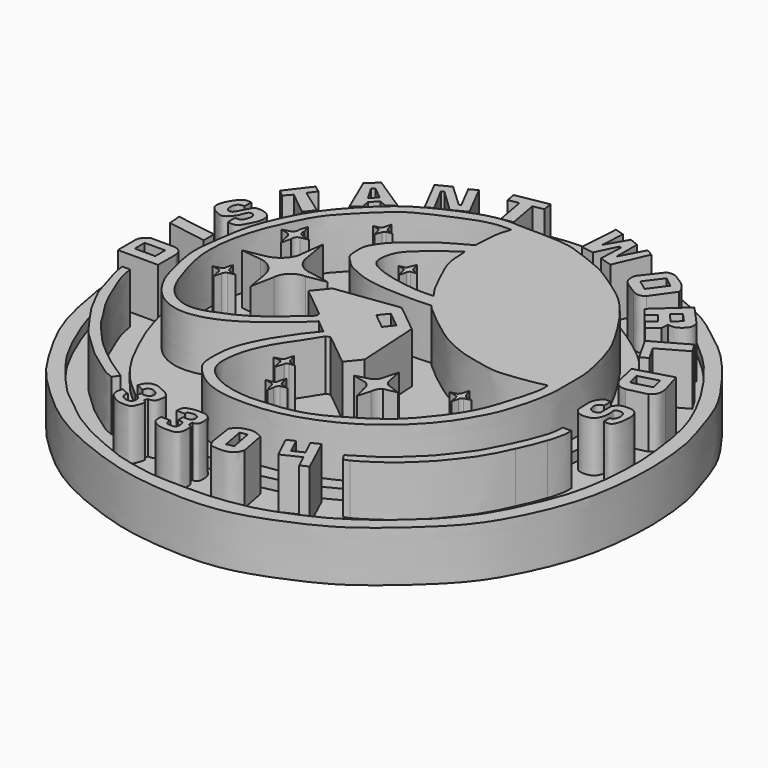
from build123d import *

# Parameters (mm, degrees)
F1_DEPTH = 5
F3_DEPTH = 1
F4_W     = 2.0163320005
F4_H     = 1.2270435691
F5_DEPTH = 5
F7_DEPTH = 5
F9_DEPTH = 5


with BuildPart() as f1:
    # F0 (on Top) → F1 (new body)
    with BuildSketch(Plane.XY):
        with BuildLine():
            add(Edge.make_bspline(
                [(51.7111346126, 48.049069941), (50.7678748897, 48.8049664216), (49.0102523766, 50.2131634527), (47.0960580877, 51.4622891603), (44.1532612894, 52.6678782116), (41.7987623297, 53.7455167095), (38.9241384854, 54.198368845), (36.2112760615, 54.588855191), (35.1156233269, 54.6296674229), (33.6611531675, 54.6973161399)],
                knots=[0, 0, 0, 0, 0.1587848407, 0.2887083688, 0.4389341741, 0.5777311814, 0.7234995998, 0.8580338098, 1, 1, 1, 1], degree=3))
            add(Edge.make_bspline(
                [(33.6611531675, 54.6973161399), (32.184455608, 54.6879987988), (28.5848595211, 54.2873708369), (24.0966370939, 52.8939574051), (20.9543695132, 51.1176224838), (17.3013221824, 48.6703474206), (15.4954945757, 46.7132766377), (13.4642047341, 44.2725846086), (11.3753618637, 41.2033970178), (9.521257633, 36.9335459877), (9.0242952072, 34.3606317348), (8.3641316141, 31.0716881383), (8.3856176584, 28.0495422351), (8.3731040723, 26.2356906156), (8.4787542, 25.5665443838)],
                knots=[0, 0, 0, 0, 0.0992587907, 0.1949964277, 0.2796793533, 0.3711651103, 0.4434600597, 0.5205588551, 0.6071574608, 0.701571019, 0.773718079, 0.8535568226, 0.9316454041, 1, 1, 1, 1], degree=3))
            add(Edge.make_bspline(
                [(8.4787542, 25.5665443838), (8.6469567072, 24.5576187529), (8.9892938948, 22.5041846587), (9.8736117903, 19.2432238378), (11.2199326592, 16.5845150003), (12.6998829432, 14.0818975753), (14.0260104939, 12.0863894558), (16.8961952907, 9.3077131414), (19.1515703093, 7.4536539705), (22.2435344436, 5.558426725), (27.5370818749, 3.5665883249), (31.0881702196, 2.8264838442), (36.4625127252, 2.4293909244), (40.2660491232, 3.040994586), (43.9751932746, 4.4318608424), (47.8648532092, 6.2355339751), (51.3627337493, 9.1108446822), (55.2761096531, 12.7078364534), (57.5788638472, 16.5330580491), (59.867785906, 21.9566905207), (60.3192412557, 27.3993684004), (60.3596594825, 29.4969516172), (60.09543055, 33.6556261084), (59.0757460976, 36.7795969155), (58.0060793509, 40.1216866902), (56.3765744324, 42.6802730824), (54.0940134997, 45.687862782), (52.5894050157, 47.3064024378), (51.7111346126, 48.049069941)],
                knots=[0, 0, 0, 0, 0.0347671138, 0.0708835607, 0.1051348664, 0.1382235837, 0.1690414489, 0.2080424565, 0.2418125015, 0.279323602, 0.3257933719, 0.3642625582, 0.409337531, 0.4482569036, 0.4870881778, 0.5276679324, 0.5698334428, 0.6148691725, 0.6564759175, 0.7047955472, 0.7500336724, 0.7790145723, 0.8183086152, 0.8548907835, 0.8912249173, 0.925687178, 0.9637277723, 1, 1, 1, 1], degree=3))
        make_face()
    extrude(amount=F1_DEPTH)

    # F2 (on face) → F3 (cut)
    with BuildSketch(Plane.XY.offset(5)):
        with BuildLine():
            add(Edge.make_bspline(
                [(41.0741753876, 52.4231344461), (40.4283108463, 52.5833942243), (39.2038707624, 52.8872172145), (37.6200383203, 53.0050375199), (35.8836721205, 53.1421407011), (33.4262599728, 53.1422456116), (31.5427762623, 53.1827877825), (29.7621839799, 53.014720149), (27.9199064835, 52.4611643215), (26.8693622202, 52.1455034614)],
                knots=[0, 0, 0, 0, 0.1395792916, 0.2646166008, 0.3972579901, 0.5549875768, 0.692245885, 0.8245056346, 1, 1, 1, 1], degree=3))
            add(Edge.make_bspline(
                [(26.8693622202, 52.1455034614), (26.1941077621, 51.9542118441), (24.8967005592, 51.5455639456), (23.2368308294, 50.7417276012), (21.9925520931, 50.0790887874), (21.3698633015, 49.7033596039)],
                knots=[0, 0, 0, 0, 0.3372017683, 0.6561727718, 1, 1, 1, 1], degree=3))
            add(Edge.make_bspline(
                [(21.3698633015, 49.7033596039), (20.8973073654, 49.4017412843), (20.0406075813, 48.7304597124), (18.5227663278, 47.5618500654), (17.4015694157, 46.5168084363), (16.7121433374, 45.8309374471), (15.5555123685, 44.5531851217), (14.796894317, 43.7997052266), (14.1297310683, 42.8254789984), (13.5414138776, 41.8603157707), (12.5184109385, 40.1809245621), (11.719447372, 38.5671220246), (11.2048363581, 37.1532939993), (10.8593457096, 35.9752066741), (10.4061809742, 34.6687647279), (10.1985998212, 33.2223982613), (9.7607197916, 31.0559009306), (9.8300043872, 29.823589938), (9.7754706922, 28.215188391), (9.7995950383, 26.7571871681), (10.0722465463, 24.6177874858), (10.5319855515, 22.7509816863), (10.8277031056, 21.3216075805), (11.5478520346, 19.4337394571), (12.3200081945, 17.6152657912), (12.9496594042, 16.3900759192), (13.8823698668, 14.7863838299), (15.0267174198, 13.4345009184), (16.0397017325, 12.1432008222), (17.227913808, 10.8341151701), (18.362962405, 9.9943729913), (19.85892427, 8.7623651761), (20.8136418481, 7.9904990708), (21.3698633015, 7.7066877857)],
                knots=[0, 0, 0, 0, 0.0328312465, 0.0683469791, 0.0995035849, 0.1249785832, 0.158060919, 0.1850135767, 0.2119535757, 0.2392529097, 0.2749364156, 0.3096840344, 0.3406860632, 0.3689004643, 0.3983516928, 0.4297730833, 0.4673249345, 0.4961301656, 0.5277285375, 0.5588836932, 0.5963540518, 0.6317401346, 0.6624203073, 0.6987063202, 0.7345540494, 0.7645418697, 0.7989875003, 0.8330718983, 0.8659213263, 0.8994452941, 0.9298939869, 0.965161083, 1, 1, 1, 1], degree=3))
            add(Edge.make_bspline(
                [(21.3698633015, 7.7066877857), (21.8242935954, 7.4197201829), (22.6102193249, 6.9234169533), (23.3405393814, 6.5974041487), (24.6749344216, 5.9752896213), (26.3517315803, 5.2950634151), (27.4916230597, 4.8555784018), (29.5184609248, 4.4422468372), (30.8744221007, 4.1773678533), (32.8012161649, 4.1176201475), (34.3783740447, 4.1096532644), (36.5315940476, 4.0829339972), (38.9610746598, 4.4207098494), (40.520645509, 4.70232748), (42.3335395771, 5.297027359), (44.2628369911, 6.0888472605), (46.5390845182, 7.1498145383), (49.0321602101, 8.9186219394), (50.0774553693, 9.729187726), (50.5082644522, 10.1606398821)],
                knots=[0, 0, 0, 0, 0.0530182962, 0.0918722738, 0.1446718725, 0.2035260186, 0.2528430584, 0.314616508, 0.3673996298, 0.4270126854, 0.482352294, 0.5467076514, 0.615235957, 0.6704680698, 0.729996623, 0.7930885823, 0.8631039364, 0.9395187167, 1, 1, 1, 1], degree=3))
            add(Edge.make_bspline(
                [(50.5082644522, 10.1606398821), (51.338030961, 10.8818824664), (52.8403305889, 12.1795774718), (54.1048621806, 13.8573359271), (55.1416239802, 15.1454667025), (55.703444036, 16.3951065215), (56.1069063842, 17.0135274529)],
                knots=[0, 0, 0, 0, 0.298919277, 0.5406530418, 0.7550289179, 1, 1, 1, 1], degree=3))
            add(Edge.make_bspline(
                [(56.1069063842, 17.0135274529), (56.4326513518, 17.6978444952), (57.0859658146, 19.0703115025), (57.944695926, 21.2594466329), (58.4011756202, 22.9855385418), (58.7809196913, 25.1389850478), (58.9144225131, 27.0488127779), (59.0182689408, 29.3055808128), (58.7717953988, 31.766077563), (58.4580605837, 34.1799384295), (57.9065093051, 36.5797244458), (57.0603517425, 38.5011529251), (56.1427986068, 40.3398277654), (54.6707713624, 42.6445054274), (53.3467822606, 44.2962389651), (52.3700339476, 45.5297902522), (49.8549028411, 47.7490127661), (48.3008189062, 49.0051240545), (45.6593942423, 50.5404322545), (43.4174382795, 51.5462594101), (41.8625418649, 52.1995034487), (41.0741753876, 52.4231344461)],
                knots=[0, 0, 0, 0, 0.0526341934, 0.1054666584, 0.1521141378, 0.2028619096, 0.2511055579, 0.3029884878, 0.3576252491, 0.4120405374, 0.4663575411, 0.5161812303, 0.5660348361, 0.6237046151, 0.6735156817, 0.7175474668, 0.780021004, 0.8307477358, 0.8903270132, 0.9454987587, 1, 1, 1, 1], degree=3))
        make_face()
        with BuildLine():
            add(Edge.make_bspline(
                [(33.6611531675, 48.2968576252), (32.7188668493, 48.2742248928), (30.8046123674, 48.2282467973), (27.9114389036, 47.2817738082), (25.6462642564, 46.2355344258), (23.6179173597, 45.270702111), (22.0028176949, 43.8402463906), (20.3712265939, 42.4943191205), (18.5038511465, 40.4011453894), (17.0743709632, 38.1014423754), (15.9216284472, 35.5309685728), (15.0852811342, 33.1070860508), (14.766773209, 31.299572438), (14.705631882, 30.168460682)],
                knots=[0, 0, 0, 0, 0.0953139236, 0.193385532, 0.2828253523, 0.3668201283, 0.4487961276, 0.5310076717, 0.6249674214, 0.7185131609, 0.8127826862, 0.9022486818, 1, 1, 1, 1], degree=3))
            add(Edge.make_bspline(
                [(14.705631882, 30.168460682), (14.6423668264, 28.7732806751), (14.5313965079, 26.3260597202), (15.1924855846, 24.0773446405), (15.7495546112, 22.2744021708), (17.1155021831, 19.319743144), (18.11601092, 17.4956140049), (19.6961029886, 15.4037010457), (21.490398612, 13.9650312351), (23.3465675563, 12.1291224025), (26.3968128165, 10.8109803892), (30.5685234002, 9.1349101269), (34.5839135517, 9.1756992622), (37.480572005, 8.9832966462), (42.3842030021, 10.5317663329), (44.935723289, 12.1669415949), (47.8687667413, 14.2676364066), (50.4690296834, 16.9069316265), (52.0460040883, 20.1494770433), (53.7202561963, 24.0923082442), (53.9581500681, 27.0739756369), (54.0263772486, 30.7699494684), (53.3791052886, 33.466629615), (52.328215763, 36.9348318757), (50.3362013773, 40.0437383165), (48.3720066975, 42.7059913993), (45.8786990141, 44.527740758), (43.3939287237, 46.2503628865), (40.1417645846, 47.5979485293), (37.3363855362, 48.2168805922), (34.9348804179, 48.2691399421), (33.6611531675, 48.2968576252)],
                knots=[0, 0, 0, 0, 0.0379727707, 0.0666062872, 0.0930975919, 0.1273715728, 0.1556918609, 0.1861995113, 0.2154099754, 0.2458638676, 0.2807806532, 0.3216988206, 0.359570364, 0.3926344792, 0.4353497636, 0.4693429432, 0.5053357892, 0.542034269, 0.5787205557, 0.6180139824, 0.651552283, 0.6878574224, 0.720012294, 0.7562202583, 0.7932829924, 0.8280739053, 0.8614452834, 0.8949852744, 0.9306518806, 0.9632186545, 1, 1, 1, 1], degree=3))
        make_face(mode=Mode.SUBTRACT)
    extrude(amount=-F3_DEPTH, mode=Mode.SUBTRACT)

    # F4 (on face) → F5 (join)
    with BuildSketch(Plane.XY.offset(4)):
        Polygon((31.7012083238, 51.6743659702), (31.5646380186, 52.6255890727), (28.3657149824, 52.0422572621), (28.5380798092, 51.0970288259), (29.5516100854, 51.2818486683), (30.0942004899, 48.3063467113), (31.2042847351, 48.5087734172), (30.6616003429, 51.4847907916), align=None)
        Polygon((24.2754928768, 46.1726076901), (24.9480567873, 46.5179793537), (23.593839258, 49.0264631808), (23.8603758607, 49.1473502907), (26.0750576854, 47.0179878073), (27.4589914014, 47.728776821), (25.776406866, 51.0048340245), (25.0277018038, 50.6202987491), (26.2477416545, 48.2448339462), (26.0750576854, 48.1357686222), (23.8534309401, 50.2147923038), (22.5448421991, 49.5428123427), align=None)
        Polygon((22.5266497582, 45.0575910509), (19.1179737449, 47.2863395097), (18.0665291846, 46.3814884424), (19.66034621, 42.6797159016), (20.4829629511, 43.2838238776), (20.31586878, 44.1064424813), (21.0228059441, 44.787671417), (21.742593497, 44.4920435548), align=None)
        Polygon((19.1179737449, 45.9912680089), (19.3647202104, 46.2529547513), (20.5600839108, 45.2632457018), (19.9177805334, 44.6279607713), align=None, mode=Mode.SUBTRACT)
        Polygon((16.2322902458, 43.1145676141), (15.5721949413, 43.6180308461), (13.8525953516, 41.3634479046), (14.4640086219, 40.805529803), (15.0957031906, 41.4977934901), (17.3835065216, 39.666775614), (18.116640419, 40.5828049955), (15.6718253846, 42.3305810757), align=None)
        with BuildLine():
            Line((13.3341727778, 37.6409515738), (13.3341727778, 38.4594388306))
            add(Edge.make_bspline(
                [(13.3341727778, 38.4594388306), (13.1328329949, 38.4861773352), (12.6794054255, 38.4670141477), (12.3715226432, 38.2494571317), (12.0767417188, 37.8415632361), (11.8218229211, 37.4482514287), (11.585603405, 36.9231194827), (11.4754050972, 36.3642093111), (11.6297396421, 36.0097183185), (11.9673009658, 35.6498556262), (12.3994227109, 35.4598877166), (13.0409652648, 35.1419269755), (13.6489838953, 35.7712943984), (13.9722418095, 36.245819714), (14.1448826176, 36.9367650593), (14.4043674386, 37.0492316275), (14.663117852, 37.0262841894), (14.9194735279, 36.7453837978), (14.8668100745, 36.4286048589), (14.7465057058, 36.0150124939), (14.583904277, 35.7154910698), (14.3462515674, 35.6220316846), (14.0574633645, 35.6540014845), (13.9775425196, 35.6511510909)],
                knots=[0, 0, 0, 0, 0.0570729672, 0.1004342645, 0.1501865811, 0.1995540161, 0.2540778443, 0.3070362003, 0.350369328, 0.3992355509, 0.4492449185, 0.5056340887, 0.5680046813, 0.6248155043, 0.6829368711, 0.7179385703, 0.7529490931, 0.7943604927, 0.8338813536, 0.8812856923, 0.9218677925, 0.9573822298, 1, 1, 1, 1], degree=3))
            Line((13.9775425196, 35.6511510909), (13.9775425196, 34.7756370902))
            add(Edge.make_bspline(
                [(13.9775425196, 34.7756370902), (14.2274338215, 34.7147552567), (14.85275661, 34.587127473), (15.3084712512, 35.4237602568), (15.4406432534, 35.7038824169), (15.6742011957, 36.0783186973), (15.7136898488, 36.3005772233)],
                knots=[0, 0, 0, 0, 0.2811261954, 0.564899386, 0.7488575689, 1, 1, 1, 1], degree=3))
            add(Edge.make_bspline(
                [(15.7136898488, 36.3005772233), (15.7963173886, 36.4708987151), (15.8577395566, 36.8541839595), (15.791136577, 37.4796592903), (15.2933716012, 37.7878689711), (14.820708284, 37.9457803969), (14.1602965065, 37.9886642948), (13.8703037967, 37.5520399389), (13.5736237612, 36.9697845141), (13.3927814882, 36.5850423612), (13.1680755406, 36.2086534843), (12.7308582453, 36.2496457095), (12.5496178667, 36.6045953078), (12.5133984564, 36.9805266253), (12.6633304779, 37.4172577468), (12.8962866098, 37.6035697467), (13.1986695936, 37.6319771345), (13.3341727778, 37.6409515738)],
                knots=[0, 0, 0, 0, 0.0742559969, 0.1492473299, 0.2207007021, 0.291550564, 0.3669483846, 0.4349897952, 0.5144178099, 0.5797680334, 0.6410282249, 0.6992429143, 0.7581682065, 0.8188691727, 0.8837159573, 0.9358592343, 1, 1, 1, 1], degree=3))
        make_face()
        Polygon((14.4279263914, 32.489712403), (10.483909207, 33.1097332466), (10.5870895946, 31.8509405588), (14.4279263914, 31.2165144183), align=None)
        with BuildLine():
            Line((10.2754924446, 27.9924366623), (10.2754924446, 25.8068926632))
            Line((10.2754924446, 25.8068926632), (14.2484623939, 25.8068926632))
            Line((14.2484623939, 25.8068926632), (14.2484623939, 27.9924366623))
            add(Edge.make_bspline(
                [(13.2731795311, 28.9509501308), (13.3709499401, 28.941728004), (13.5627570465, 28.9060325795), (13.7976352281, 28.810146736), (14.0706454491, 28.5937155491), (14.2252486955, 28.2885714053), (14.2242600566, 28.0684766605), (14.2484623939, 27.9924366623)],
                knots=[0, 0, 0, 0, 0.1964321573, 0.3797173689, 0.5920145119, 0.8050201005, 1, 1, 1, 1], degree=3))
            Line((13.2731795311, 28.9509501308), (11.0247032717, 28.9509501308))
            add(Edge.make_bspline(
                [(11.0247032717, 28.9509501308), (10.9400641363, 28.9133937846), (10.7706032171, 28.8382000468), (10.5689523641, 28.6464374974), (10.4110467983, 28.4303286881), (10.3080016732, 28.2457161921), (10.2866800994, 28.0795997249), (10.2754924446, 27.9924366623)],
                knots=[0, 0, 0, 0, 0.2079811, 0.416411016, 0.6203698375, 0.8008040492, 1, 1, 1, 1], degree=3))
        make_face()
        with Locations((12.1522275731, 27.4256244302)):
            Rectangle(F4_W, F4_H, mode=Mode.SUBTRACT)
        with BuildLine():
            Line((13.027927562, 23.8670001503), (12.2642284259, 23.8670001503))
            add(Edge.make_bspline(
                [(12.2642284259, 23.8670001503), (12.3017119019, 23.5269744987), (12.3836639388, 22.8096305016), (12.8468530554, 21.6106513813), (13.155143213, 20.2480274762), (13.566018576, 19.1492113653), (13.8568682596, 18.6361819506)],
                knots=[0, 0, 0, 0, 0.2196710713, 0.4606366711, 0.7154864609, 1, 1, 1, 1], degree=3))
            add(Edge.make_bspline(
                [(13.8568682596, 18.6361819506), (14.1113035621, 18.1158924791), (14.610653001, 17.0947831714), (15.5415504772, 15.7568033097), (16.2712190234, 14.7967454044), (17.0297768704, 13.628677883), (18.0510864545, 12.7622386723), (19.0981333226, 11.6481081462), (20.3005326801, 10.6803960014), (21.4141736639, 9.9681239406), (22.2742208476, 9.2674165562), (22.8538510221, 9.063910103), (23.1286939234, 8.967413567)],
                knots=[0, 0, 0, 0, 0.113276296, 0.2223137051, 0.3170241332, 0.4171478651, 0.516697972, 0.6230424129, 0.7302078951, 0.8293699765, 0.9190924614, 1, 1, 1, 1], degree=3))
            Line((23.1286939234, 8.967413567), (23.5469993204, 9.5641948283))
            add(Edge.make_bspline(
                [(13.027927562, 23.8670001503), (13.0988075151, 23.4335313078), (13.2448521572, 22.5403901692), (13.8307702388, 21.1104381965), (14.2498195635, 20.0791827468), (14.8003112704, 18.7882258314), (15.4327285631, 17.6781262507), (16.2393937079, 16.5708904884), (16.7172455575, 15.5430687829), (17.8123147137, 14.3954608024), (18.6545486117, 13.3540849613), (19.6361564689, 12.4102573445), (20.4028679906, 11.7999204332), (21.6181278076, 10.8149628584), (22.5286774141, 10.2652750222), (23.2014641977, 9.8020840746), (23.5469993204, 9.5641948283)],
                knots=[0, 0, 0, 0, 0.0728177379, 0.1500373521, 0.2167979436, 0.2901597816, 0.3618290912, 0.4342516547, 0.5011435831, 0.5791638091, 0.6530592688, 0.7247441906, 0.787827287, 0.8652185372, 0.9307778773, 1, 1, 1, 1], degree=3))
        make_face()
        with BuildLine():
            Line((25.5802646279, 9.1310907155), (26.3363886625, 8.7729264051))
            add(Edge.make_bspline(
                [(26.670826599, 8.2416916266), (26.7851549942, 8.1997066421), (27.031148391, 8.1093701255), (27.5452485541, 8.321868704), (27.632381961, 8.7471482547), (27.3879207691, 9.1065868884), (26.9208542019, 9.3291269593), (26.6679076046, 9.2773853433), (26.38047697, 9.0566510364), (26.350640057, 8.864639421), (26.3363886625, 8.7729264051)],
                knots=[0, 0, 0, 0, 0.1255670904, 0.2701750082, 0.394922208, 0.5270819864, 0.6710370712, 0.7731063431, 0.891625819, 1, 1, 1, 1], degree=3))
            Line((26.670826599, 8.2416916266), (26.5019852668, 7.7164107934))
            add(Edge.make_bspline(
                [(25.885367766, 7.5392494909), (25.8313206143, 7.4671179659), (25.7138818054, 7.3105034518), (25.8721835518, 6.9616073603), (26.0960898245, 6.7731685281), (26.5032827156, 6.6765837168), (26.8898574688, 6.7355267415), (27.0043012745, 7.0119996882), (26.9956848713, 7.4143429637), (26.8189362159, 7.6658429573), (26.6209984637, 7.7017116366), (26.5019852668, 7.7164107934)],
                knots=[0, 0, 0, 0, 0.100411468, 0.2146027374, 0.3204245265, 0.4466274332, 0.5634907257, 0.6643164613, 0.7874813325, 0.8904890432, 1, 1, 1, 1], degree=3))
            Line((25.885367766, 7.5392494909), (25.0894464552, 7.9106790945))
            add(Edge.make_bspline(
                [(27.4927373976, 7.5032250024), (27.5963742459, 7.4593561764), (27.8138630756, 7.3674457671), (27.7768810172, 6.9384504126), (27.6191821311, 6.5438511866), (27.4525650914, 6.1172245756), (27.058105213, 5.9900804171), (26.0722164132, 5.9996152946), (25.4818821365, 6.4112147812), (25.1031300582, 6.7023829907), (24.9445443736, 7.078211576), (24.9674709639, 7.574350878), (25.0511602926, 7.8049627534), (25.0894464552, 7.9106790945)],
                knots=[0, 0, 0, 0, 0.0739763096, 0.1546873991, 0.2442299805, 0.3300797126, 0.4118526947, 0.5423431995, 0.6556477176, 0.7452986012, 0.8280805713, 0.9207375706, 1, 1, 1, 1], degree=3))
            Line((27.4927373976, 7.5032250024), (27.6496578008, 7.8310873359))
            add(Edge.make_bspline(
                [(25.5802646279, 9.1310907155), (25.6494985862, 9.3563445811), (25.7828852362, 9.7903203253), (26.362455474, 10.0690269063), (26.9066448997, 10.0327306379), (27.5579406037, 9.7077680636), (28.1000197382, 9.4715235248), (28.474386764, 9.0126327032), (28.4094373875, 8.5270773035), (28.3169369082, 7.9660193243), (27.8543185916, 7.8105497459), (27.7087195068, 7.8251605285), (27.6496578008, 7.8310873359)],
                knots=[0, 0, 0, 0, 0.1140337372, 0.2196982317, 0.3211832456, 0.4392764104, 0.5476254932, 0.6490471428, 0.7452642203, 0.8468912977, 0.9378920466, 1, 1, 1, 1], degree=3))
        make_face()
        with BuildLine():
            add(Edge.make_bspline(
                [(30.5634140968, 7.6972995885), (30.5717797098, 7.914917425), (30.5873445844, 8.3198123574), (30.8807042374, 8.4703989309), (31.0163926333, 8.5400501266)],
                knots=[0, 0, 0, 0, 0.5374674244, 1, 1, 1, 1], degree=3))
            Line((30.5634140968, 7.6972995885), (31.4061641693, 7.6972995885))
            add(Edge.make_bspline(
                [(31.6379219294, 7.1705807932), (31.8483100791, 7.1457658041), (32.2223761754, 7.1024868545), (32.5149500676, 7.3689079037), (32.5612331328, 7.7203103009), (32.3687537796, 7.9964522956), (31.9377184075, 8.1238447137), (31.6567775289, 8.0347634874), (31.3489507293, 7.9668143531), (31.3883301655, 7.7830958356), (31.4061641693, 7.6972995885)],
                knots=[0, 0, 0, 0, 0.1633577532, 0.2892206238, 0.4104010631, 0.5298584867, 0.6689082451, 0.7883998421, 0.8966834645, 1, 1, 1, 1], degree=3))
            Line((31.6379219294, 7.1705807932), (31.6379219294, 6.5279831178))
            add(Edge.make_bspline(
                [(31.2060117722, 6.1276769266), (31.2082083539, 5.9259910918), (31.212357802, 5.544996881), (31.6884508073, 5.5058002471), (32.1951555038, 5.4673032113), (32.2723449724, 5.9182078889), (32.2639919086, 6.2118614116), (32.1626436822, 6.5541192147), (31.8279343022, 6.5374475278), (31.6379219294, 6.5279831178)],
                knots=[0, 0, 0, 0, 0.1621733816, 0.3063532923, 0.4572774927, 0.5947920432, 0.7219340068, 0.8421437154, 1, 1, 1, 1], degree=3))
            Line((31.2060117722, 6.1276769266), (30.3000546992, 6.1276769266))
            add(Edge.make_bspline(
                [(32.7651016414, 6.4647770487), (32.8812315838, 6.4216294101), (33.1448336354, 6.3232314482), (33.1250924483, 5.7007263974), (33.0961053174, 5.1954799913), (32.776800977, 4.8432768153), (32.3933412887, 4.7651439876), (31.6953120051, 4.734716795), (31.1759530884, 4.8290372538), (30.7526191669, 4.9787142357), (30.3461106294, 5.3083615725), (30.2955972305, 5.5940302315), (30.2579685373, 5.9306248573), (30.3000546992, 6.1276769266)],
                knots=[0, 0, 0, 0, 0.0786963817, 0.1783151976, 0.2744266809, 0.3603693173, 0.4426649201, 0.5535035951, 0.6505659626, 0.7400952597, 0.8327057889, 0.9025894864, 1, 1, 1, 1], degree=3))
            Line((32.7651016414, 6.4647770487), (32.7651016414, 6.8966867402))
            add(Edge.make_bspline(
                [(31.0163926333, 8.5400501266), (31.1873583134, 8.5986649761), (31.5280001589, 8.7154334966), (32.0889138973, 8.6628473061), (32.6284294636, 8.6944095572), (33.0617617445, 8.4586619058), (33.2887659846, 8.1279807988), (33.3294416502, 7.5905855322), (33.280154435, 7.1249896922), (33.1263241543, 6.9355007611), (32.9031381159, 6.8735609594), (32.7651016414, 6.8966867402)],
                knots=[0, 0, 0, 0, 0.1222123294, 0.2471716393, 0.3698567047, 0.4834918816, 0.5865582802, 0.709559365, 0.822658511, 0.9005926556, 1, 1, 1, 1], degree=3))
        make_face()
        with BuildLine():
            add(Edge.make_bspline(
                [(35.5685390532, 7.8389467672), (35.7183401537, 8.0495546879), (36.0018966274, 8.448211568), (36.5760690242, 8.6135575893), (37.2395091657, 8.7950657952), (37.777801562, 8.6069838537), (38.1306719443, 8.4433913378), (38.3097454906, 8.3603719249)],
                knots=[0, 0, 0, 0, 0.2165727207, 0.4099475693, 0.6170214365, 0.8056472491, 1, 1, 1, 1], degree=3))
            Line((35.5685390532, 7.8389467672), (35.9409861267, 5.4254927672))
            add(Edge.make_bspline(
                [(38.8009827039, 5.7950114174), (38.712410591, 5.5409881615), (38.5282570971, 5.0051139201), (37.574278802, 4.6733073628), (36.8265202947, 4.7520981284), (36.1411585709, 4.7445960281), (36.0639018396, 5.2286585131), (35.9409861267, 5.4254927672)],
                knots=[0, 0, 0, 0, 0.2073093558, 0.4311483629, 0.6383614712, 0.813483, 1, 1, 1, 1], degree=3))
            Line((38.8009827039, 5.7950114174), (38.3097454906, 8.3603719249))
        make_face()
        Polygon((37.0512390697, 5.7008559851), (36.6411842406, 7.8687425703), (37.3413860798, 8.0028232187), (37.7563322262, 5.8358732649), align=None, mode=Mode.SUBTRACT)
        with BuildLine():
            add(Edge.make_bspline(
                [(45.2756509185, 9.952859953), (45.5097728707, 10.0978137395), (46.0144083476, 10.4102536039), (47.0118195463, 11.003017783), (47.6969117889, 11.5001727088), (48.6059410499, 12.1499596287), (49.5890928923, 13.1711352278), (50.7427598098, 14.170649606), (51.8338731002, 15.644145804), (52.995915437, 17.0906054695), (53.7915854074, 18.8187976321), (54.3774611628, 19.874009236), (54.8989895086, 21.1887030112), (55.332836056, 22.2978165657), (55.5340663022, 23.1851798552), (55.5842678281, 23.7672390647), (55.6019693613, 24.0891333669)],
                knots=[0, 0, 0, 0, 0.0591913299, 0.12710204, 0.1857225827, 0.251913349, 0.3274040891, 0.4058953989, 0.4913699064, 0.5788061019, 0.6654101563, 0.7354767987, 0.8104464728, 0.8799233638, 0.9396453837, 1, 1, 1, 1], degree=3))
            Line((45.2756509185, 9.952859953), (45.6654168665, 9.3416357413))
            Line((45.6654168665, 9.3416357413), (46.2188273668, 9.5446361229))
            add(Edge.make_bspline(
                [(54.9380071461, 19.0530549735), (54.792859502, 18.7246983887), (54.5272769961, 18.0955272875), (54.1182492996, 17.3543854883), (53.6183083414, 16.4308863224), (52.847085937, 15.3613647493), (52.2365717569, 14.6526727333), (51.6322656937, 13.8289350431), (50.7152948486, 12.8861213671), (49.8459371659, 12.0784252958), (48.9047513571, 11.2220460803), (47.8940652542, 10.6011426042), (47.1250592599, 10.0274680168), (46.5245133276, 9.7067729938), (46.2188273668, 9.5446361229)],
                knots=[0, 0, 0, 0, 0.0815243639, 0.1544645885, 0.2364581305, 0.3282004737, 0.405396526, 0.4855240763, 0.5769406698, 0.6645758511, 0.7545511714, 0.8413142322, 0.919345035, 1, 1, 1, 1], degree=3))
            add(Edge.make_bspline(
                [(56.0028553009, 21.6963719577), (55.9052298229, 21.4344204382), (55.7178994567, 20.7515300601), (55.190426693, 19.5939642614), (54.9380071461, 19.0530549735)],
                knots=[0, 0, 0, 0, 0.4172777134, 1, 1, 1, 1], degree=3))
            add(Edge.make_bspline(
                [(56.4287900925, 24.0891333669), (56.4390998102, 23.8680745401), (56.4743241616, 23.3733263691), (56.228329403, 22.4942256138), (56.123880393, 21.9185576818), (56.0028553009, 21.6963719577)],
                knots=[0, 0, 0, 0, 0.3095977984, 0.6643974873, 1, 1, 1, 1], degree=3))
            Line((56.4287900925, 24.0891333669), (55.6019693613, 24.0891333669))
        make_face()
        Polygon((39.0511155128, 52.1838180721), (38.1423458457, 52.4594262242), (37.8741845489, 48.5710836947), (39.1256026924, 48.3774133027), (40.1088632643, 50.4035241902), (40.3248816729, 50.3439307213), (40.2280464768, 48.0049662292), (41.4496697485, 47.6250723004), (42.8858307718, 50.9121165781), (42.2020144761, 51.2750484049), (40.9803874791, 48.97332564), (40.9803874791, 51.5208616853), (40.0865152478, 51.8560633063), (38.9021374285, 49.8076081276), align=None)
        with BuildLine():
            add(Edge.make_bspline(
                [(45.6834919751, 49.3651069701), (45.9243815736, 49.3917257014), (46.3871582747, 49.4421298328), (46.8811954956, 49.0963149982), (47.3215723486, 48.8412698863), (47.8179414723, 48.4931193204), (48.2494564689, 47.9274058485), (48.3576618135, 47.6667508483), (48.4098047018, 47.3836921155)],
                knots=[0, 0, 0, 0, 0.1783184872, 0.3400242713, 0.4927991819, 0.6602462865, 0.833939611, 1, 1, 1, 1], degree=3))
            Line((45.6834919751, 49.3651069701), (44.2011542618, 47.4507324398))
            add(Edge.make_bspline(
                [(45.6313528121, 45.2532954514), (45.3930014412, 45.3897293347), (44.9347160184, 45.6762446321), (44.2842772722, 46.1347657648), (44.0545212117, 46.591918815), (44.0686045957, 47.2428695091), (44.1832060354, 47.3938039971), (44.2011542618, 47.4507324398)],
                knots=[0, 0, 0, 0, 0.2424825546, 0.4754573692, 0.6645109824, 0.8734424352, 1, 1, 1, 1], degree=3))
            add(Edge.make_bspline(
                [(46.8971419151, 45.2532954514), (46.7048890003, 45.1214153126), (46.3472978625, 44.9281727006), (45.8696774128, 45.1094933952), (45.6313528121, 45.2532954514)],
                knots=[0, 0, 0, 0, 0.4739075822, 1, 1, 1, 1], degree=3))
            Line((46.8971419151, 45.2532954514), (48.4098047018, 47.3836921155))
        make_face()
        Polygon((44.9997095292, 46.8796833409), (46.2570600212, 48.5531724989), (47.2701154649, 47.7635860443), (46.0479523865, 46.1065442784), align=None, mode=Mode.SUBTRACT)
        with BuildLine():
            Line((52.7833720126, 44.10945165), (50.9719960392, 46.0978038609))
            Line((50.9719960392, 46.0978038609), (48.1265000999, 43.5055755079))
            Line((48.1265000999, 43.5055755079), (48.7522110343, 42.7308864892))
            Line((48.7522110343, 42.7308864892), (49.5522159336, 43.3770448843))
            Line((49.5522159336, 43.3770448843), (50.2598520356, 42.5009247986))
            Line((50.2598520356, 42.5009247986), (49.4792680178, 41.8704525144))
            Line((49.4792680178, 41.8704525144), (50.16645848, 41.0196460547))
            Line((50.16645848, 41.0196460547), (51.1518078869, 41.8155059201))
            Line((51.1518078869, 41.8155059201), (51.1805638671, 42.552113533))
            add(Edge.make_bspline(
                [(52.7833720126, 44.10945165), (52.8362552884, 43.8455766675), (52.9299733121, 43.3169840819), (52.2356730624, 42.7216541154), (51.8605000096, 42.5275534899), (51.4139951899, 42.5400711297), (51.1805638671, 42.552113533)],
                knots=[0, 0, 0, 0, 0.2687958457, 0.5476233981, 0.7489697985, 1, 1, 1, 1], degree=3))
        make_face()
        Polygon((50.1898564398, 44.0418981016), (50.9496480227, 44.712305069), (51.7825220829, 43.7996672912), (51.0072109868, 43.1155665818), align=None, mode=Mode.SUBTRACT)
        Polygon((55.4295207612, 40.2750981531), (54.8481680453, 41.2482433021), (51.4812506735, 39.3487662077), (52.84466332, 36.932049661), (53.5406965999, 37.3247231739), (52.7341015712, 38.7544528726), align=None)
        with BuildLine():
            Line((57.7642896944, 34.0504485963), (57.1743585169, 36.093134433))
            Line((57.1743585169, 36.093134433), (53.6045506597, 35.0621677935))
            Line((53.6045506597, 35.0621677935), (53.9973005652, 33.2667417824))
            add(Edge.make_bspline(
                [(55.3508810699, 32.1165509522), (55.1417067634, 32.1198495214), (54.7165821226, 32.1265535143), (54.1799530917, 32.6025100129), (54.0585968471, 33.0438325319), (53.9973005652, 33.2667417824)],
                knots=[0, 0, 0, 0, 0.3240398793, 0.6585767611, 1, 1, 1, 1], degree=3))
            Line((55.3508810699, 32.1165509522), (57.2515055537, 32.5654037297))
            add(Edge.make_bspline(
                [(57.7642896944, 34.0504485963), (57.8018078977, 33.8491469088), (57.8752554794, 33.4550682784), (57.6988626856, 32.8858342017), (57.3998005622, 32.6716236514), (57.2515055537, 32.5654037297)],
                knots=[0, 0, 0, 0, 0.344874999, 0.6751451958, 1, 1, 1, 1], degree=3))
        make_face()
        Polygon((54.6144768596, 34.3818701804), (56.536141783, 34.9008589983), (56.8426797298, 33.7182703375), (54.9329881877, 33.2025152004), align=None, mode=Mode.SUBTRACT)
        with BuildLine():
            add(Edge.make_bspline(
                [(55.1405325532, 29.7888126224), (55.0223274199, 29.6510606785), (54.7760071776, 29.3640080671), (54.4951215578, 28.7792773758), (54.597737978, 27.7030708787), (54.5722895717, 27.148631834), (55.1002946406, 26.5498165178), (56.0964802032, 26.6080559001), (56.6182998156, 26.8895396663), (56.9238396003, 27.5554850031), (56.9410872129, 28.4289731564), (56.8226487151, 28.8861614967), (57.2862486891, 28.9702573482), (57.7302682593, 28.9622006513), (57.946647671, 28.4315609759), (57.9110290455, 27.9724388867), (57.6714690608, 27.550090029), (57.4941006041, 27.5857265548), (57.4198812246, 27.6006385684)],
                knots=[0, 0, 0, 0, 0.0613843714, 0.1279150305, 0.2135324238, 0.2753179652, 0.3441472743, 0.4248106274, 0.4871798319, 0.5566154775, 0.6354855306, 0.6862133305, 0.737298464, 0.7907504112, 0.8493182001, 0.9072694721, 0.9611971465, 1, 1, 1, 1], degree=3))
            Line((57.4198812246, 27.6006385684), (57.4198812246, 26.8744882196))
            Line((57.4198812246, 26.8744882196), (57.4607439339, 26.8744882196))
            add(Edge.make_bspline(
                [(57.4607439339, 26.8744882196), (57.6738650318, 26.8320350087), (58.1318275421, 26.7402736166), (58.4921980021, 27.4627700616), (58.5571240342, 28.198916452), (58.6142807468, 28.9465013848), (58.3090896383, 29.6198813678), (57.8086613894, 29.8349717008), (57.0132671284, 29.8123165153), (56.6435823898, 29.6982812022), (56.3992443372, 29.3829375744), (56.2837161124, 29.2277429253)],
                knots=[0, 0, 0, 0, 0.1088784918, 0.2245424665, 0.3471800995, 0.4685067437, 0.5835311272, 0.6845964061, 0.8076093245, 0.8941364008, 1, 1, 1, 1], degree=3))
            Line((56.2837161124, 29.2277429253), (56.2837161124, 27.9232542962))
            add(Edge.make_bspline(
                [(56.2837161124, 27.9232542962), (56.1959833759, 27.8127691943), (56.0002355244, 27.5696724585), (55.3826080279, 27.6980004911), (55.232315568, 28.1172182829), (55.1900144553, 28.6597598611), (55.5225955722, 28.919847817), (55.6950709091, 28.93132597), (55.7787530124, 28.9331804961)],
                knots=[0, 0, 0, 0, 0.1685522774, 0.3566803142, 0.5256217563, 0.7120940106, 0.8699673345, 1, 1, 1, 1], degree=3))
            Line((55.7787530124, 28.9331804961), (55.7787530124, 29.7888126224))
            Line((55.7787530124, 29.7888126224), (55.1405325532, 29.7888126224))
        make_face()
        Polygon((43.6622693704, 6.4611088844), (44.4130152464, 6.8208416924), (42.7897828257, 10.3253223447), (41.980556409, 9.937567579), (42.6906349787, 8.4556661621), (41.651723662, 7.9578539234), (40.9139407645, 9.497573002), (40.1748065577, 9.1434041252), (41.2610574091, 6.8764484045), (43.0520404138, 7.7346287368), align=None)
    extrude(amount=F5_DEPTH)

    # F6 (on face) → F7 (join)
    with BuildSketch(Plane.XY.offset(5)):
        with BuildLine():
            add(Edge.make_bspline(
                [(32.3415845633, 23.5964879394), (32.1864006007, 23.4182068792), (31.8794781733, 23.0656026022), (31.4635009996, 22.5394360861), (31.1058456795, 22.0532678427), (30.7775610133, 21.4954986391), (30.2058609035, 20.7174911631), (29.54120406, 19.6049216963), (28.9004661221, 18.2774478875), (28.3323610797, 16.7295715134), (28.2429427763, 14.3132229421), (28.5192608743, 13.2199844281), (29.8855825487, 11.826369041), (31.1822176433, 11.0467408395), (33.0070958732, 10.5234810289), (35.4876160502, 10.4579258167), (37.7198868394, 10.6547712578), (40.3603596805, 11.3144537229), (43.3212095565, 12.6405588331), (45.354861594, 13.9985789507), (47.5588039133, 15.8767636072), (49.1958840497, 17.7722647158), (50.1841732624, 19.3947587321), (51.301549319, 21.3546163628), (51.9066495762, 23.4680707949), (52.2014909379, 24.4956925559), (52.5188651215, 26.2894668101), (52.6028704364, 27.1870997917), (52.5197697657, 28.9303503764), (52.6638910822, 30.5920468997), (51.9175388186, 33.6061890219), (51.2562842127, 35.6521019446), (49.78738541, 38.0786794256), (48.4209915064, 40.2238556672), (46.4061336262, 42.4648621236), (44.2192766766, 43.8400274859), (42.5985812888, 45.0209208802), (39.9626884396, 45.9966282163), (38.0932824677, 46.7328601375), (35.305223052, 46.8111590282), (33.7838715009, 46.8134878533), (33.0863669515, 46.8231588602)],
                knots=[0, 0, 0, 0, 0.015708083, 0.0309957067, 0.0453788948, 0.0602446131, 0.0784892226, 0.0998320828, 0.1223133531, 0.1467019249, 0.1752903331, 0.1951162342, 0.2204248033, 0.2435575268, 0.2689717456, 0.2983159206, 0.3262743958, 0.3570928737, 0.390596934, 0.4199833782, 0.4516737868, 0.481140483, 0.5067405916, 0.5350157322, 0.562289697, 0.5821674799, 0.6067017339, 0.6250105137, 0.6488499367, 0.6735566205, 0.7059563764, 0.7339230703, 0.7648181924, 0.7949640908, 0.8272624788, 0.8570372696, 0.8836229388, 0.9144543798, 0.9412929901, 0.9721031582, 1, 1, 1, 1], degree=3))
            add(Edge.make_bspline(
                [(33.0863669515, 46.8231588602), (32.2438728428, 46.9407146311), (30.3428863918, 46.7538523777), (27.4461594707, 45.6188541844), (24.1276730021, 43.9846733483), (21.5532971934, 41.5745994237), (19.036573515, 38.682671653), (17.4179342567, 35.1911391852), (16.7059809288, 32.9040486867), (16.3484440165, 30.1365765709), (15.974147194, 27.6166524707), (16.6727252266, 24.8233813333), (17.1362425143, 22.932063823), (18.129617349, 21.2804438604), (19.4649459681, 19.9064964601), (21.9493724293, 19.1160224196), (25.1253820656, 20.0546870245), (27.7527295599, 21.8537310973), (29.5581950006, 23.2789969397), (30.7447311054, 24.4444996758), (30.9414526211, 24.6425393143), (31.0027021915, 24.7041992843)],
                knots=[0, 0, 0, 0, 0.0539468001, 0.1124935229, 0.1758077929, 0.2377603666, 0.3028531203, 0.3671661922, 0.4184793897, 0.4729317376, 0.5261621063, 0.581693858, 0.6280163837, 0.6730366203, 0.7181578171, 0.7698096133, 0.8294055937, 0.8886301646, 0.9399336029, 0.9812557506, 1, 1, 1, 1], degree=3))
            Line((31.0027021915, 24.7041992843), (30.2717480808, 25.2968650311))
            add(Edge.make_bspline(
                [(30.2717480808, 25.2968650311), (29.9276443161, 25.001357856), (29.1394812354, 24.3245043327), (27.3770895308, 22.7046058444), (25.5326864675, 21.6116674344), (24.3396798318, 21.0981381803), (22.6426851756, 20.3758011564), (20.5989922389, 20.368286525), (18.7885111018, 21.8622635768), (17.9589821137, 23.9069451729), (17.4330352692, 25.6190436402), (16.9896837678, 27.5253346017), (16.9484424256, 29.0723187735), (17.0963794136, 30.8829661891), (17.7016646968, 33.4666411261), (18.9311478868, 36.3077431516), (20.1291107868, 38.6203813554), (21.7212387465, 40.2691405647), (23.7838848435, 42.3707157907), (25.4129548964, 43.5411206013), (28.4282930083, 44.8248961927), (30.1836657407, 45.5855976402), (31.8293080345, 45.9330252415), (32.6609602536, 45.9133069268), (33.0461375415, 45.9041744471)],
                knots=[0, 0, 0, 0, 0.038263532, 0.087641887, 0.1338561688, 0.1698486229, 0.2122043329, 0.2564303175, 0.3034738215, 0.3501539363, 0.3928624788, 0.4367384816, 0.4758743112, 0.5179817494, 0.5696156463, 0.6257936199, 0.6763958425, 0.7245452297, 0.7780519124, 0.8238349871, 0.8805124934, 0.9251839938, 0.965349186, 1, 1, 1, 1], degree=3))
            add(Edge.make_bspline(
                [(33.0461375415, 45.9041744471), (32.9094032744, 45.506700062), (32.6183269807, 44.7321443785), (32.576562995, 43.0369706187), (32.4892570146, 42.4939767874), (32.5207263231, 42.1687290072)],
                knots=[0, 0, 0, 0, 0.3367614148, 0.7177257966, 1, 1, 1, 1], degree=3))
            add(Edge.make_bspline(
                [(32.5207263231, 42.1687290072), (32.2113743256, 42.014669458), (31.592593402, 41.7065120484), (30.7203717845, 41.1381002593), (29.8957248986, 40.6948696245), (29.1075415293, 40.0675427828), (28.1973111692, 39.3361788508), (27.4674212282, 38.6936438504), (26.8873114392, 38.161888148), (26.3258593359, 37.3539996778), (25.919974589, 36.6662759949), (25.9243014339, 35.9613982094), (25.9122457612, 35.2951617359), (26.0247506857, 34.6171383388), (26.5479890056, 34.1476434129), (27.1578627686, 33.4196680094), (28.2939787399, 32.9671320633), (29.1133912069, 32.5662038341), (30.4162739516, 32.3003824369), (31.5354193269, 32.1720419507), (32.6722653369, 32.1400702533), (34.4646132443, 32.0717596686), (35.5654704874, 32.1227296326), (36.128949374, 32.1797505021)],
                knots=[0, 0, 0, 0, 0.0484764545, 0.096883375, 0.1426466982, 0.190332954, 0.2419932843, 0.2887010416, 0.3308089699, 0.377853742, 0.4200434138, 0.4591773911, 0.4982406931, 0.5364621776, 0.5753889801, 0.6216453804, 0.6734987413, 0.7194920955, 0.7737454389, 0.8241829056, 0.8747217774, 0.938095725, 1, 1, 1, 1], degree=3))
            add(Edge.make_bspline(
                [(36.128949374, 32.1797505021), (36.3166957578, 31.9310122404), (36.7813998061, 31.5359355041), (37.5669858501, 30.8299938559), (38.9446126142, 29.7469540399), (40.3658638039, 28.7230900209), (41.573350783, 28.0724311955), (43.2927714936, 27.3451544222), (45.0717158415, 27.0286983503), (46.5312028346, 26.6598930445), (48.0227935406, 26.754214902), (50.3629861455, 27.0870192378), (51.1514900212, 27.2665651495), (51.4904037118, 27.3684691638)],
                knots=[0, 0, 0, 0, 0.069928216, 0.1453233569, 0.2434712408, 0.3413165131, 0.4276246833, 0.5278715836, 0.6277913189, 0.7165513694, 0.807725778, 0.9207785989, 1, 1, 1, 1], degree=3))
            add(Edge.make_bspline(
                [(51.4904037118, 27.3684691638), (51.5233974809, 27.0398031228), (51.5924341011, 26.3016918766), (50.6883965202, 23.2533659493), (49.8070913865, 20.4940604496), (47.5444428575, 17.4052524534), (45.5840280285, 15.298987168), (42.3946582125, 13.3071272593), (39.4703322018, 11.7439234403), (35.8209807304, 11.4663038598), (34.3984424571, 11.3952577053), (31.903551207, 11.7614014936), (30.0071847076, 12.9164425763), (29.3002418921, 14.1986606548), (29.3397865357, 15.8247442467), (29.7431647021, 17.6476948952), (30.7712483357, 19.7643819955), (31.8676545183, 21.2245483933), (32.7304571212, 22.7070402283), (32.9193856744, 22.971678705), (32.9817794263, 23.0590756983)],
                knots=[0, 0, 0, 0, 0.0379396464, 0.1033369878, 0.169299699, 0.2414250441, 0.3057059518, 0.3773982048, 0.44726987, 0.5171801193, 0.5627126492, 0.6212997022, 0.676849819, 0.7205164203, 0.7671697744, 0.818817607, 0.8759609833, 0.928416229, 0.9764950626, 1, 1, 1, 1], degree=3))
            Line((32.9817794263, 23.0590756983), (32.3415845633, 23.5964879394))
        make_face()
        with BuildLine():
            add(Edge.make_bspline(
                [(32.5207263231, 40.824636817), (32.2257126568, 40.6102136481), (31.4952662024, 40.0793072485), (29.3316182973, 38.4014082492), (28.4974722122, 37.384169763), (28.2134348914, 36.4654210217), (28.0600070993, 35.0350667336), (29.5155691341, 34.3084532796), (31.1793268268, 33.8007697611), (33.7048402454, 33.4273017692), (34.797476148, 33.4882739118), (35.277929157, 33.5150845349)],
                knots=[0, 0, 0, 0, 0.0986735333, 0.244313199, 0.3446085172, 0.4295911423, 0.5275853181, 0.6315773443, 0.7505750205, 0.890323042, 1, 1, 1, 1], degree=3))
            add(Edge.make_bspline(
                [(35.277929157, 33.5150845349), (35.0127114755, 33.8826366154), (34.4116156626, 34.6992296877), (33.4898336871, 36.8428306718), (33.006251985, 37.7635376022), (32.5566705421, 39.1402918432), (32.6120996025, 40.4767295856), (32.5207263231, 40.824636817)],
                knots=[0, 0, 0, 0, 0.1951606205, 0.4373933404, 0.6022947461, 0.7956006856, 1, 1, 1, 1], degree=3))
        make_face(mode=Mode.SUBTRACT)
        Polygon((30.2717480808, 25.2968650311), (31.0027021915, 24.7041992843), (32.3415845633, 23.5964879394), (32.9817794263, 23.0590756983), (33.3729757892, 23.2029520051), (36.6405886639, 20.5535350355), (37.7546329011, 21.9275223444), (37.4056574563, 28.1726489911), (34.5820512598, 30.4620603931), (28.4044781577, 29.6301764832), (27.2077545712, 28.15421802), (30.2717480808, 25.6698979031), align=None)
        Polygon((33.8209563716, 28.2693810028), (34.5620572298, 29.1519415119), (36.1152564858, 27.8925902289), (35.3895476426, 26.9975497024), align=None, mode=Mode.SUBTRACT)
    extrude(amount=F7_DEPTH)

    # F8 (on face) → F9 (join)
    with BuildSketch(Plane.XY.offset(5)):
        with BuildLine():
            ThreePointArc((22.8959238034, 32.2096994648), (22.1446696286, 31.1675789895), (20.9808759391, 30.623536557))
            Line((20.9808759391, 30.623536557), (18.9595080225, 30.2534555319))
            Line((18.9595080225, 30.2534555319), (20.9808759391, 30.0121996552))
            ThreePointArc((20.9808759391, 30.0121996552), (22.2605707022, 29.3969510364), (22.8959238034, 28.1271179818))
            Line((22.8959238034, 28.1271179818), (23.2629559892, 25.9672173845))
            Line((23.2629559892, 25.9672173845), (23.7006954849, 28.3016934991))
            ThreePointArc((23.7006954849, 28.3016934991), (24.2872624708, 29.4736766437), (25.5222264677, 29.9123898149))
            Line((25.5222264677, 29.9123898149), (27.450462512, 30.2400552134))
            Line((27.450462512, 30.2400552134), (25.5222264677, 30.623536557))
            ThreePointArc((25.5222264677, 30.623536557), (24.3324891776, 31.096250051), (23.7006954849, 32.2096994648))
            Line((23.7006954849, 32.2096994648), (23.2439953834, 34.897275269))
            Line((23.2439953834, 34.897275269), (22.8959238034, 32.2096994648))
        make_face()
        with BuildLine():
            ThreePointArc((40.7456681132, 20.3460156918), (40.5423015733, 19.9563246154), (40.1929952204, 19.6894872934))
            Line((40.1929952204, 19.6894872934), (38.775421679, 19.3083304912))
            Line((38.775421679, 19.3083304912), (40.1929952204, 18.9810283482))
            ThreePointArc((40.1929952204, 18.9810283482), (40.5944051512, 18.6027152006), (40.7456681132, 18.0722717196))
            Line((40.7456681132, 18.0722717196), (41.0906262696, 16.8296862394))
            Line((41.0906262696, 16.8296862394), (41.461545974, 18.0722717196))
            ThreePointArc((41.461545974, 18.0722717196), (41.5941137162, 18.5800236897), (41.9326126575, 18.9810283482))
            Line((41.9326126575, 18.9810283482), (43.2197116315, 19.2184168845))
            Line((43.2197116315, 19.2184168845), (41.9326126575, 19.6894872934))
            ThreePointArc((41.9326126575, 19.6894872934), (41.6138911487, 19.9580630251), (41.461545974, 20.3460156918))
            Line((41.461545974, 20.3460156918), (41.1706008017, 21.8667201698))
            Line((41.1706008017, 21.8667201698), (40.7456681132, 20.3460156918))
        make_face()
        with BuildLine():
            ThreePointArc((25.1156445593, 40.1577167213), (25.0468881711, 39.9785264777), (24.9084420502, 39.8456007242))
            Line((24.9084420502, 39.8456007242), (24.331426248, 39.7406853735))
            Line((24.331426248, 39.7406853735), (24.9084420502, 39.6069251001))
            ThreePointArc((24.9084420502, 39.6069251001), (25.0518885605, 39.5138203294), (25.1156445593, 39.3551364541))
            Line((25.1156445593, 39.3551364541), (25.2887494862, 38.7309081852))
            Line((25.2887494862, 38.7309081852), (25.5274251103, 39.3551364541))
            ThreePointArc((25.5274251103, 39.3551364541), (25.5940025064, 39.4933206327), (25.7162656635, 39.5859442651))
            Line((25.7162656635, 39.5859442651), (26.2749232352, 39.6908521652))
            Line((26.2749232352, 39.6908521652), (25.7162656635, 39.8456007242))
            ThreePointArc((25.7162656635, 39.8456007242), (25.5850055769, 39.9793694131), (25.5274251103, 40.1577167213))
            Line((25.5274251103, 40.1577167213), (25.3018625081, 40.7871827483))
            Line((25.3018625081, 40.7871827483), (25.1156445593, 40.1577167213))
        make_face()
        with BuildLine():
            ThreePointArc((30.8159887791, 36.2540818751), (30.7397764485, 36.0614484267), (30.6184329093, 35.8935445547))
            Line((30.6184329093, 35.8935445547), (30.0479885191, 35.7552580535))
            Line((30.0479885191, 35.7552580535), (30.6184329093, 35.6243737042))
            ThreePointArc((30.6184329093, 35.6243737042), (30.7682679257, 35.4801951572), (30.8283325285, 35.2811217308))
            Line((30.8283325285, 35.2811217308), (30.9987254441, 34.599557519))
            Line((30.9987254441, 34.599557519), (31.1839357018, 35.2811217308))
            ThreePointArc((31.1839357018, 35.2811217308), (31.2422949382, 35.4550853254), (31.3790217042, 35.5774573982))
            Line((31.3790217042, 35.5774573982), (31.9494605064, 35.6540121138))
            Line((31.9494605064, 35.6540121138), (31.3790217042, 35.8935445547))
            ThreePointArc((31.3790217042, 35.8935445547), (31.247361907, 36.0553526867), (31.1839357018, 36.2540818751))
            Line((31.1839357018, 36.2540818751), (31.038235873, 36.8047729135))
            Line((31.038235873, 36.8047729135), (30.8159887791, 36.2540818751))
        make_face()
        with BuildLine():
            ThreePointArc((20.2687159181, 35.6993451715), (20.1991556599, 35.2874396162), (19.853848964, 35.0523479283))
            Line((19.853848964, 35.0523479283), (19.1958043724, 34.8630025983))
            Line((19.1958043724, 34.8630025983), (19.853848964, 34.6942804754))
            ThreePointArc((19.853848964, 34.6942804754), (20.176124816, 34.4550873207), (20.2687159181, 34.0645723045))
            Line((20.2687159181, 34.0645723045), (20.5168851827, 33.1328784624))
            Line((20.5168851827, 33.1328784624), (20.7675434649, 34.0645723045))
            ThreePointArc((20.7675434649, 34.0645723045), (20.8203023239, 34.4643646524), (21.1330205202, 34.7189716995))
            Line((21.1330205202, 34.7189716995), (21.9269171357, 34.8630025983))
            Line((21.9269171357, 34.8630025983), (21.1330205202, 35.0523479283))
            ThreePointArc((21.1330205202, 35.0523479283), (20.8092037809, 35.2961540166), (20.7675434649, 35.6993451715))
            Line((20.7675434649, 35.6993451715), (20.5168851827, 36.4957973361))
            Line((20.5168851827, 36.4957973361), (20.2687159181, 35.6993451715))
        make_face()
        with BuildLine():
            ThreePointArc((19.7937283665, 27.2746775299), (19.7291423215, 27.0689054749), (19.5579975843, 26.9376691431))
            Line((19.5579975843, 26.9376691431), (18.8668966293, 26.7735756934))
            Line((18.8668966293, 26.7735756934), (19.5579975843, 26.6443137079))
            ThreePointArc((19.5579975843, 26.6443137079), (19.7354438129, 26.489837296), (19.7937283665, 26.2619052082))
            Line((19.7937283665, 26.2619052082), (19.9565012008, 25.5163386464))
            Line((19.9565012008, 25.5163386464), (20.1726462692, 26.2619052082))
            ThreePointArc((20.1726462692, 26.2619052082), (20.2625779764, 26.4706014506), (20.4275846481, 26.6268532723))
            Line((20.4275846481, 26.6268532723), (21.1159512401, 26.7700813711))
            Line((21.1159512401, 26.7700813711), (20.4275846481, 26.9376691431))
            ThreePointArc((20.4275846481, 26.9376691431), (20.2551039143, 27.0721232339), (20.1726462692, 27.2746775299))
            Line((20.1726462692, 27.2746775299), (19.9809465557, 27.919055894))
            Line((19.9809465557, 27.919055894), (19.7937283665, 27.2746775299))
        make_face()
        with BuildLine():
            ThreePointArc((47.1657440066, 22.3268102854), (47.0792237709, 22.0954315617), (46.9108074903, 21.91471681))
            Line((46.9108074903, 21.91471681), (46.2889410555, 21.7508040369))
            Line((46.2889410555, 21.7508040369), (46.9108074903, 21.6423161328))
            ThreePointArc((46.9108074903, 21.6423161328), (47.137202488, 21.5148632313), (47.2251139581, 21.2703831494))
            Line((47.2251139581, 21.2703831494), (47.3487116396, 20.6293109804))
            Line((47.3487116396, 20.6293109804), (47.5272014737, 21.2703831494))
            ThreePointArc((47.5272014737, 21.2703831494), (47.5995254785, 21.4828893045), (47.7734096348, 21.6248538345))
            Line((47.7734096348, 21.6248538345), (48.4297350049, 21.7717587948))
            Line((48.4297350049, 21.7717587948), (47.7734096348, 21.91471681))
            ThreePointArc((47.7734096348, 21.91471681), (47.6087408624, 22.0959304286), (47.5272014737, 22.3268102854))
            Line((47.5272014737, 22.3268102854), (47.3366379738, 22.8823162615))
            Line((47.3366379738, 22.8823162615), (47.1657440066, 22.3268102854))
        make_face()
        with BuildLine():
            ThreePointArc((34.8285734653, 15.0241162628), (34.7888107449, 14.7573956985), (34.5618762076, 14.6117191762))
            Line((34.5618762076, 14.6117191762), (33.9285619557, 14.4978472963))
            Line((33.9285619557, 14.4978472963), (34.5618762076, 14.3672442064))
            ThreePointArc((34.5618762076, 14.3672442064), (34.7818106428, 14.1819903803), (34.8606780171, 13.9054581523))
            Line((34.8606780171, 13.9054581523), (35.078972578, 13.2809914649))
            Line((35.078972578, 13.2809914649), (35.189114511, 13.9054581523))
            ThreePointArc((35.189114511, 13.9054581523), (35.2564101847, 14.1755160697), (35.4533419013, 14.37218301))
            Line((35.4533419013, 14.37218301), (36.0674075782, 14.502000995))
            Line((36.0674075782, 14.502000995), (35.4533419013, 14.6117191762))
            ThreePointArc((35.4533419013, 14.6117191762), (35.2745579702, 14.7870224423), (35.1940505207, 15.0241162628))
            Line((35.1940505207, 15.0241162628), (35.0415930152, 15.6607124954))
            Line((35.0415930152, 15.6607124954), (34.8285734653, 15.0241162628))
        make_face()
        with BuildLine():
            ThreePointArc((32.9315029085, 18.3058939874), (32.8486971299, 18.0996313591), (32.6598659158, 17.9823972285))
            Line((32.6598659158, 17.9823972285), (32.0329987633, 17.7970266857))
            Line((32.0329987633, 17.7970266857), (32.6598659158, 17.7478007972))
            ThreePointArc((32.6598659158, 17.7478007972), (32.8634947301, 17.6429920635), (32.9315029085, 17.4243040383))
            Line((32.9315029085, 17.4243040383), (33.099424094, 16.5896322578))
            Line((33.099424094, 16.5896322578), (33.3784744143, 17.4243040383))
            ThreePointArc((33.3784744143, 17.4243040383), (33.4435511528, 17.6397330069), (33.6525812745, 17.7231058478))
            Line((33.6525812745, 17.7231058478), (34.1810397804, 17.7873130888))
            Line((34.1810397804, 17.7873130888), (33.6525812745, 17.9823972285))
            ThreePointArc((33.6525812745, 17.9823972285), (33.4506731792, 18.0891926349), (33.3784744143, 18.3058939874))
            Line((33.3784744143, 18.3058939874), (33.1315286458, 18.9998112619))
            Line((33.1315286458, 18.9998112619), (32.9315029085, 18.3058939874))
        make_face()
    extrude(amount=F9_DEPTH)


solid = f1.part
